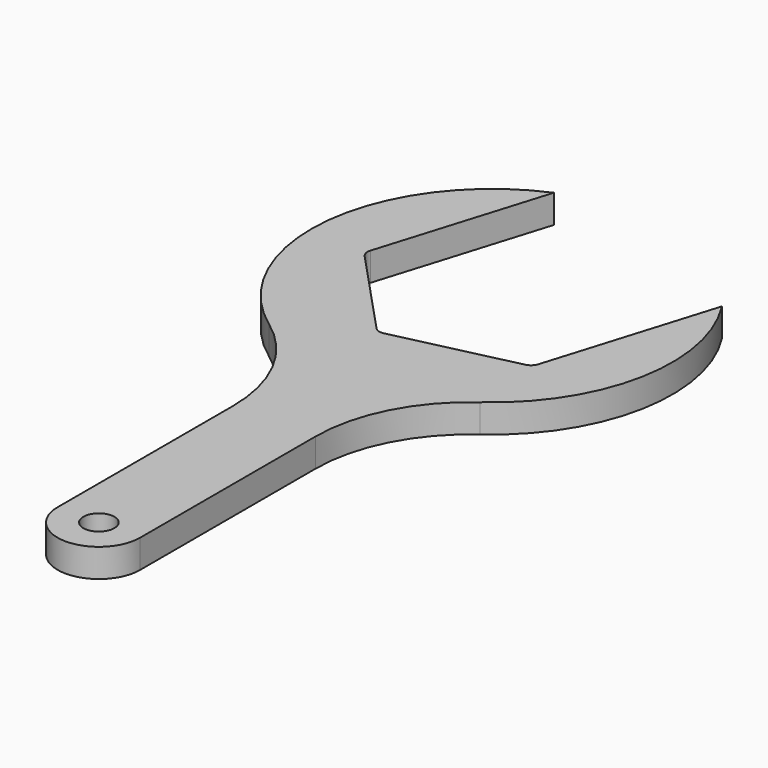
from build123d import *

# Parameters (mm, degrees)
F0_R     = 3
F1_DEPTH = 5.5


with BuildPart() as f1:
    # F0 (on Top) → F1 (new body)
    with BuildSketch(Plane.XY):
        with BuildLine():
            ThreePointArc((18.99968, -33.177394), (32.933195, -11.260742), (27.928865, 14.223354))
            Line((27.928865, 14.223354), (18.095814, -17.939106))
            ThreePointArc((18.095814, -17.939106), (17.547201, -18.81707), (16.633107, -19.303102))
            Line((16.633107, -19.303102), (-6.487814, -24.640988))
            ThreePointArc((-6.487814, -24.640988), (-7.52246, -24.604857), (-8.400424, -24.056244))
            Line((-8.400424, -24.056244), (-24.583628, -6.701882))
            ThreePointArc((-24.583628, -6.701882), (-25.069661, -5.787787), (-25.03353, -4.753142))
            Line((-25.03353, -4.753142), (-15.20048, 27.409318))
            ThreePointArc((-15.20048, 27.409318), (-36.248352, -0.921491), (-21.923397, -33.177394))
            ThreePointArc((-21.923397, -33.177394), (-12.758358, -43.84473), (-9.461859, -57.516711))
            Line((-9.461859, -57.516711), (-9.461859, -100))
            ThreePointArc((-9.461859, -100), (-1.461859, -108), (6.538141, -100))
            Line((6.538141, -100), (6.538141, -57.516711))
            ThreePointArc((6.538141, -57.516711), (9.834641, -43.84473), (18.99968, -33.177394))
        make_face()
        with Locations((-1.461859, -100)):
            Circle(F0_R, mode=Mode.SUBTRACT)
    extrude(amount=F1_DEPTH)


solid = f1.part
